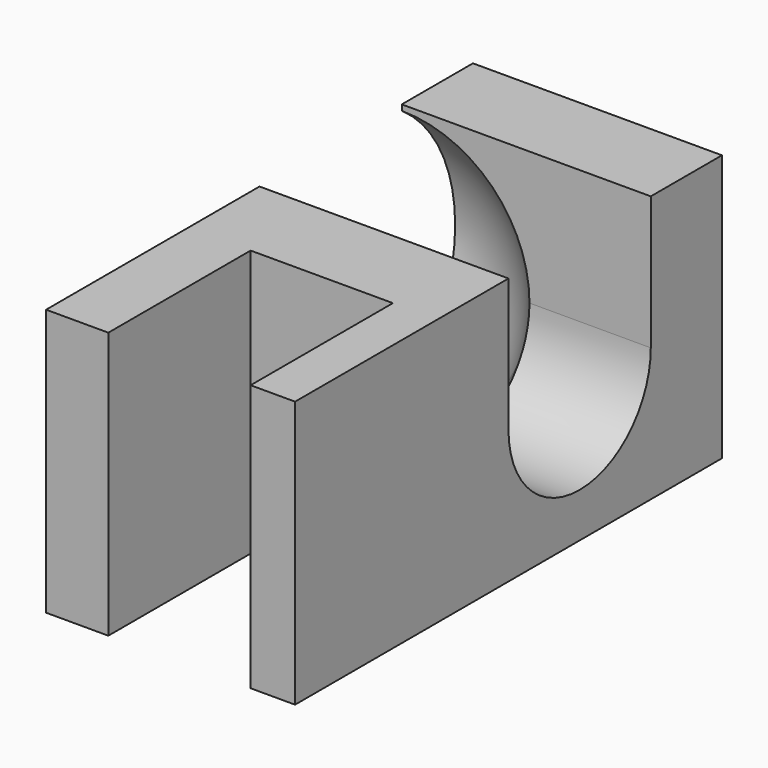
from build123d import *

# Parameters (mm, degrees)
F1_DEPTH = 30
F3_DEPTH = 28


with BuildPart() as f1:
    # F0 (on Top) → F1 (new body)
    with BuildSketch(Plane.XY):
        Polygon((0, 60), (0, 0), (7, 0), (7, 20), (23, 20), (23, 0), (28, 0), (28, 60), align=None)
    extrude(amount=F1_DEPTH)

    # F2 (on face) → F3 (cut, through all)
    with BuildSketch(Plane(origin=(0, 0, 0), x_dir=(0, -1, 0), z_dir=(-1, 0, 0))):
        with BuildLine():
            ThreePointArc((-50, 15), (-40, 5), (-30, 15))
            Line((-30, 15), (-50, 15))
        make_face()
        with BuildLine():
            Line((-50, 15), (-30, 15))
            ThreePointArc((-30, 15), (-40, 25), (-50, 15))
        make_face()
        with BuildLine():
            Line((-30, 15), (-30, 30))
            Line((-30, 30), (-50, 30))
            Line((-50, 30), (-50, 15))
            ThreePointArc((-50, 15), (-40, 25), (-30, 15))
        make_face()
    extrude(amount=-F3_DEPTH, mode=Mode.SUBTRACT)

    # F2 (on face) → F4 (revolve, cut)
    with BuildSketch(Plane(origin=(0, 0, 0), x_dir=(0, -1, 0), z_dir=(-1, 0, 0))):
        with BuildLine():
            ThreePointArc((-50, 15), (-40, 5), (-30, 15))
            Line((-30, 15), (-50, 15))
        make_face()
        with BuildLine():
            Line((-49.0138781887, 0), (-30.9861218113, 0))
            ThreePointArc((-30.9861218113, 0), (-24.7685708435, 6.3829491211), (-22.5, 15))
            Line((-22.5, 15), (-30, 15))
            ThreePointArc((-30, 15), (-40, 5), (-50, 15))
            Line((-50, 15), (-57.5, 15))
            ThreePointArc((-57.5, 15), (-55.2314291565, 6.3829491211), (-49.0138781887, 0))
        make_face()
        with BuildLine():
            ThreePointArc((-49.0138781887, 0), (-40, -2.5), (-30.9861218113, 0))
            Line((-30.9861218113, 0), (-49.0138781887, 0))
        make_face()
    revolve(axis=Axis((0, 40, 15), (0, -1, 0)), mode=Mode.SUBTRACT)


solid = f1.part
